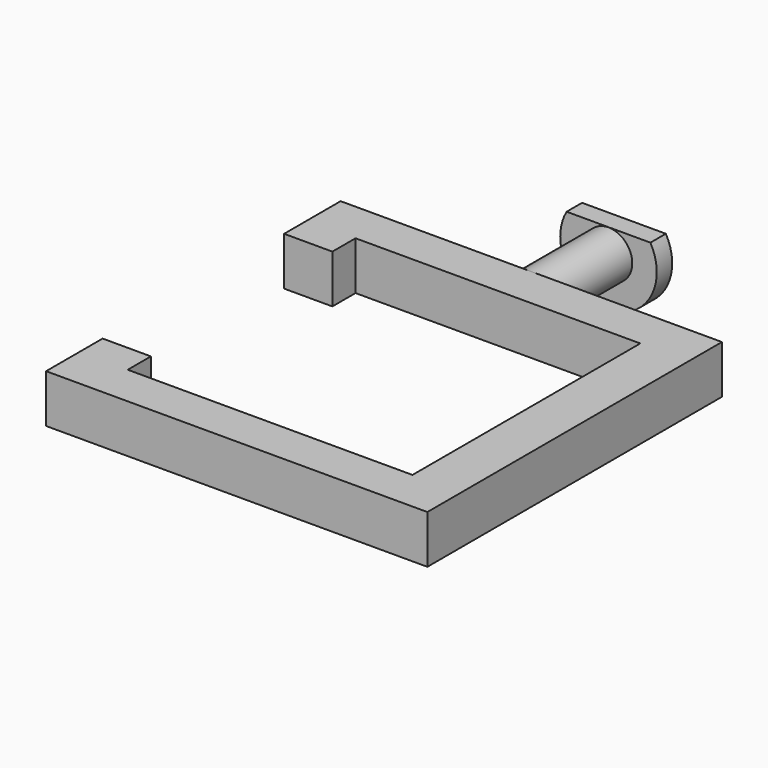
from build123d import *

# Parameters (mm, degrees)
F0_W     = 10
F0_H     = 6
F1_DEPTH = 5
F2_R     = 4.9247083424
F3_DEPTH = 20
F4_R     = 4.9247083424
F5_DEPTH = 4


with BuildPart() as f1:
    # F0 (on Top) → F1 (new body, symmetric)
    with BuildSketch(Plane.XY):
        Polygon((29.5, -29.5), (-29.5, -29.5), (-39.5, -29.5), (-39.5, -38.1432852078), (39.5, -38.1432852078), (39.5, 38.1432852078), (-39.5, 38.1432852078), (-39.5, 23.5), (-29.5, 23.5), (-29.5, 29.5), (29.5, 29.5), align=None)
        with Locations((-34.5, -26.5)):
            Rectangle(F0_W, F0_H)
    extrude(amount=F1_DEPTH, both=True)

    # F2 (on face) → F3 (join)
    with BuildSketch(Plane(origin=(0, 38.1432852078, 0), x_dir=(-1, 0, 0), z_dir=(0, 1, 0))):
        Circle(F2_R)
    extrude(amount=F3_DEPTH)

    # F4 (on face) → F5 (join)
    with BuildSketch(Plane(origin=(0, 58.1432852078, 0), x_dir=(-1, 0, 0), z_dir=(0, 1, 0))):
        with BuildLine():
            ThreePointArc((-8.6772361623, 4.9704700566), (-2.5717346653, -9.6636525606), (10, 0))
            ThreePointArc((10, 0), (9.6636525606, 2.5717346653), (8.6772361623, 4.9704700566))
            Line((8.6772361623, 4.9704700566), (-8.6772361623, 4.9704700566))
        make_face()
        Circle(F4_R, mode=Mode.SUBTRACT)
        Circle(F4_R)
    extrude(amount=F5_DEPTH)


solid = f1.part
